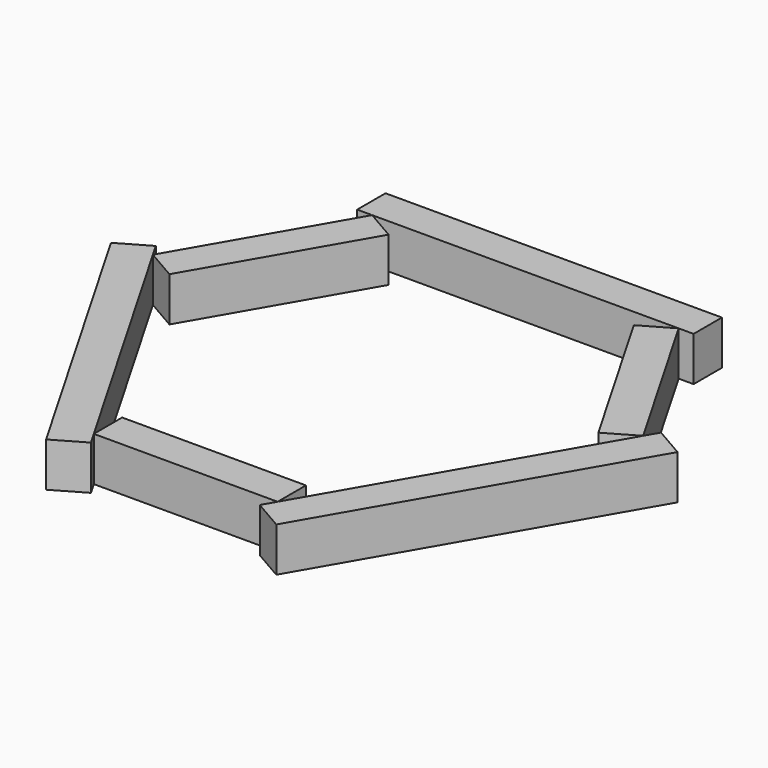
from build123d import *

# Parameters (mm, degrees)
F1_DEPTH = 25


with BuildPart() as f1:
    # F0 (on Top) → F1 (new body)
    with BuildSketch(Plane.XY):
        Polygon((95, 129.9038105677), (0, 129.9038105677), (-51.9059892324, 129.9038105677), (-63.4529946162, 109.9038105677), (86.5470053838, 109.9038105677), (95, 109.9038105677), align=None)
        Polygon((-63.4529946162, 109.9038105677), (-51.9059892324, 129.9038105677), (-75, 129.9038105677), (-86.5470053838, 109.9038105677), align=None)
        Polygon((-86.5470053838, 109.9038105677), (-75, 129.9038105677), (-95, 129.9038105677), (-95, 109.9038105677), align=None)
        Polygon((95, 129.9038105677), (0, 129.9038105677), (-51.9059892324, 129.9038105677), (-63.4529946162, 109.9038105677), (86.5470053838, 109.9038105677), (95, 109.9038105677), align=None)
    extrude(amount=F1_DEPTH)


with BuildPart() as f1b:
    # F0 (on Top) → F1, piece 2 (new body)
    with BuildSketch(Plane.XY):
        Polygon((-69.2264973081, 99.9038105677), (-86.5470053838, 109.9038105677), (-112.5, 64.9519052838), (-138.4529946162, 20), (-121.1324865405, 10), align=None)
    extrude(amount=F1_DEPTH)


with BuildPart() as f1c:
    # F0 (on Top) → F1, piece 3 (new body)
    with BuildSketch(Plane.XY):
        Polygon((-63.4529946162, -109.9038105677), (-126.9059892324, 0), (-138.4529946162, -20), (-112.5, -64.9519052838), (-86.5470053838, -109.9038105677), align=None)
        Polygon((-126.9059892324, 0), (-138.4529946162, 20), (-150, 0), (-138.4529946162, -20), align=None)
        Polygon((-150, 0), (-138.4529946162, 20), (-142.6794919243, 27.3205080757), (-160, 17.3205080757), align=None)
        Polygon((-47.6794919243, -137.2243186434), (-51.9059892324, -129.9038105677), (-75, -129.9038105677), (-65, -147.2243186434), align=None)
        Polygon((-63.4529946162, -109.9038105677), (-126.9059892324, 0), (-138.4529946162, -20), (-112.5, -64.9519052838), (-86.5470053838, -109.9038105677), align=None)
        Polygon((-51.9059892324, -129.9038105677), (-63.4529946162, -109.9038105677), (-86.5470053838, -109.9038105677), (-75, -129.9038105677), align=None)
    extrude(amount=F1_DEPTH)


with BuildPart() as f1d:
    # F0 (on Top) → F1, piece 4 (new body)
    with BuildSketch(Plane.XY):
        Polygon((0, -129.9038105677), (51.9059892324, -129.9038105677), (51.9059892324, -109.9038105677), (-51.9059892324, -109.9038105677), (-51.9059892324, -129.9038105677), align=None)
    extrude(amount=F1_DEPTH)


with BuildPart() as f1e:
    # F0 (on Top) → F1, piece 5 (new body)
    with BuildSketch(Plane.XY):
        Polygon((142.6794919243, 27.3205080757), (138.4529946162, 20), (63.4529946162, -109.9038105677), (86.5470053838, -109.9038105677), (112.5, -64.9519052838), (160, 17.3205080757), align=None)
        Polygon((86.5470053838, -109.9038105677), (63.4529946162, -109.9038105677), (51.9059892324, -129.9038105677), (75, -129.9038105677), align=None)
        Polygon((75, -129.9038105677), (51.9059892324, -129.9038105677), (47.6794919243, -137.2243186434), (65, -147.2243186434), align=None)
    extrude(amount=F1_DEPTH)


with BuildPart() as f1f:
    # F0 (on Top) → F1, piece 6 (new body)
    with BuildSketch(Plane.XY):
        Polygon((138.4529946162, 20), (86.5470053838, 109.9038105677), (69.2264973081, 99.9038105677), (121.1324865405, 10), align=None)
    extrude(amount=F1_DEPTH)


solid = Compound([f1.part, f1b.part, f1c.part, f1d.part, f1e.part, f1f.part])
